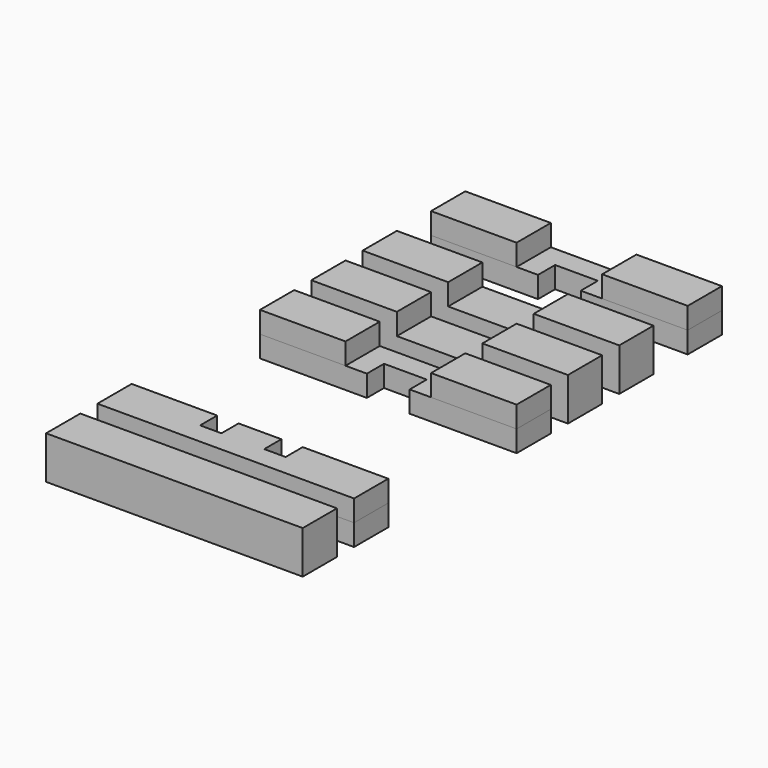
from build123d import *

# Parameters (mm, degrees)
F1_W     = 8
F1_H     = 4
F2_DEPTH = 2
F3_DEPTH = 4
F1_W_2   = 4
F1_H_2   = 2
F4_DEPTH = 2
F5_W     = 8
F5_H     = 4
F6_DEPTH = 2
F1_W_3   = 2
F7_DEPTH = 2
F8_DEPTH = 2
F1_W_4   = 24
F9_DEPTH = 4


with BuildPart() as f2:
    # F1 (on Top) → F2 (new body)
    with BuildSketch(Plane.XY):
        with Locations((-8, 0)):
            Rectangle(F1_W, F1_H)
        Rectangle(F1_W, F1_H)
        with Locations((8, 0)):
            Rectangle(F1_W, F1_H)
    extrude(amount=F2_DEPTH)

    # F1 (on Top) → F3 (join)
    with BuildSketch(Plane.XY):
        with Locations((-8, 0)):
            Rectangle(F1_W, F1_H)
        with Locations((8, 0)):
            Rectangle(F1_W, F1_H)
    extrude(amount=F3_DEPTH)


with BuildPart() as f4:
    # F1 (on Top) → F4 (new body)
    with BuildSketch(Plane.XY):
        Polygon((-2, -4), (-12, -4), (-12, -8), (-2, -8), (-2, -6), align=None)
        with Locations((0, -5)):
            Rectangle(F1_W_2, F1_H_2)
        Polygon((12, -4), (2, -4), (2, -6), (2, -8), (12, -8), align=None)
    extrude(amount=F4_DEPTH)


with BuildPart() as f6:
    # F5 (on face) → F6 (new body)
    with BuildSketch(Plane.XY.offset(2)):
        with Locations((-8, -6)):
            Rectangle(F5_W, F5_H)
    extrude(amount=F6_DEPTH)


with BuildPart() as f6b:
    # F5 (on face) → F6, piece 2 (new body)
    with BuildSketch(Plane.XY.offset(2)):
        with Locations((8, -6)):
            Rectangle(F5_W, F5_H)
    extrude(amount=F6_DEPTH)


with BuildPart() as f7:
    # F1 (on Top) → F7 (new body)
    with BuildSketch(Plane.XY):
        with Locations((-3, -26)):
            Rectangle(F1_W_3, F1_H_2)
        Polygon((2, -23), (-2, -23), (-2, -25), (-2, -27), (2, -27), (2, -25), align=None)
        with Locations((3, -26)):
            Rectangle(F1_W_3, F1_H_2)
        Polygon((12, -23), (4, -23), (4, -25), (4, -27), (12, -27), align=None)
        Polygon((-4, -23), (-12, -23), (-12, -27), (-4, -27), (-4, -25), align=None)
    extrude(amount=F7_DEPTH)


with BuildPart() as f8:
    # F8 (new): a face of the model
    f8_faces = [f7.part.faces().sort_by_distance(p)[0] for p in [
        (0, -25.0909090909, 2),
    ]]
    extrude(f8_faces, amount=F8_DEPTH)


with BuildPart() as f9:
    # F1 (on Top) → F9 (new body)
    with BuildSketch(Plane.XY):
        with Locations((0, -31)):
            Rectangle(F1_W_4, F1_H)
    extrude(amount=F9_DEPTH)


with BuildPart() as f10_1:
    # F10: copy of F2
    add(f2.part.moved(Location((0, 6, 0))))


with BuildPart() as f11_1:
    # F11: copy of F4
    add(f4.part.moved(Location((0, 20, 0))))


with BuildPart() as f12_1:
    # F12: copy of F6b
    add(f6b.part.moved(Location((0, 20, 0))))


with BuildPart() as f13_1:
    # F13: copy of F6
    add(f6.part.moved(Location((0, 20, 0))))


solid = Compound([f2.part, f4.part, f6.part, f6b.part, f7.part, f8.part, f9.part, f10_1.part, f11_1.part, f12_1.part, f13_1.part])
